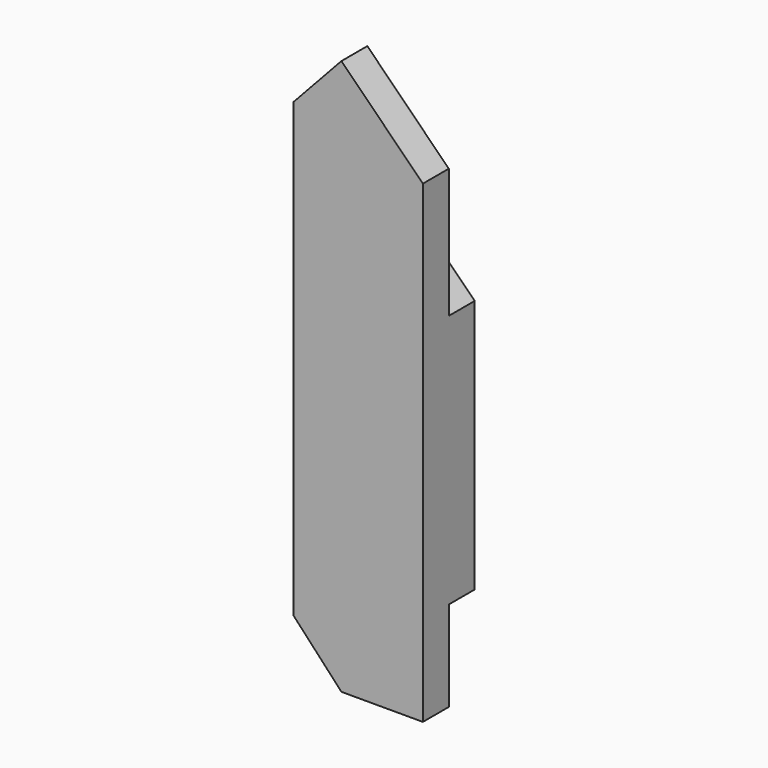
from build123d import *

# Parameters (mm, degrees)
F0_W     = 70
F0_H     = 300
F1_DEPTH = 35
F3_DEPTH = 35.001
F6_DEPTH = 17.5
F8_DEPTH = 35.001
F9_DEPTH = 17.5


with BuildPart() as f1:
    # F0 (on Front) → F1 (new body)
    with BuildSketch(Plane.XZ):
        with Locations((35, 150)):
            Rectangle(F0_W, F0_H)
    extrude(amount=F1_DEPTH)

    # F2 (on face) → F3 (cut, through all)
    with BuildSketch(Plane(origin=(0, 0, 0), x_dir=(-1, 0, 0), z_dir=(0, 1, 0))):
        Polygon((-26, 300), (-70, 300), (-70, 256), align=None)
        Polygon((0, 300), (-26, 300), (0, 272), align=None)
    extrude(amount=-F3_DEPTH, mode=Mode.SUBTRACT)

    # F5 (on face) → F6 (cut)
    with BuildSketch(Plane(origin=(0, 0, 0), x_dir=(-1, 0, 0), z_dir=(0, 1, 0))):
        Polygon((-70, 256), (-70, 186), (0, 256), (0, 272), (-26, 300), align=None)
    extrude(amount=-F6_DEPTH, mode=Mode.SUBTRACT)

    # F7 (on face) → F8 (cut, through all)
    with BuildSketch(Plane(origin=(0, 0, 0), x_dir=(-1, 0, 0), z_dir=(0, 1, 0))):
        Polygon((0, 0), (0, 28), (-26, 0), align=None)
    extrude(amount=-F8_DEPTH, mode=Mode.SUBTRACT)

    # F7 (on face) → F9 (cut)
    with BuildSketch(Plane(origin=(0, 0, 0), x_dir=(-1, 0, 0), z_dir=(0, 1, 0))):
        Polygon((0, 98), (-70, 48.732314), (-70, 0), (-26, 0), (0, 28), align=None)
    extrude(amount=-F9_DEPTH, mode=Mode.SUBTRACT)


solid = f1.part
